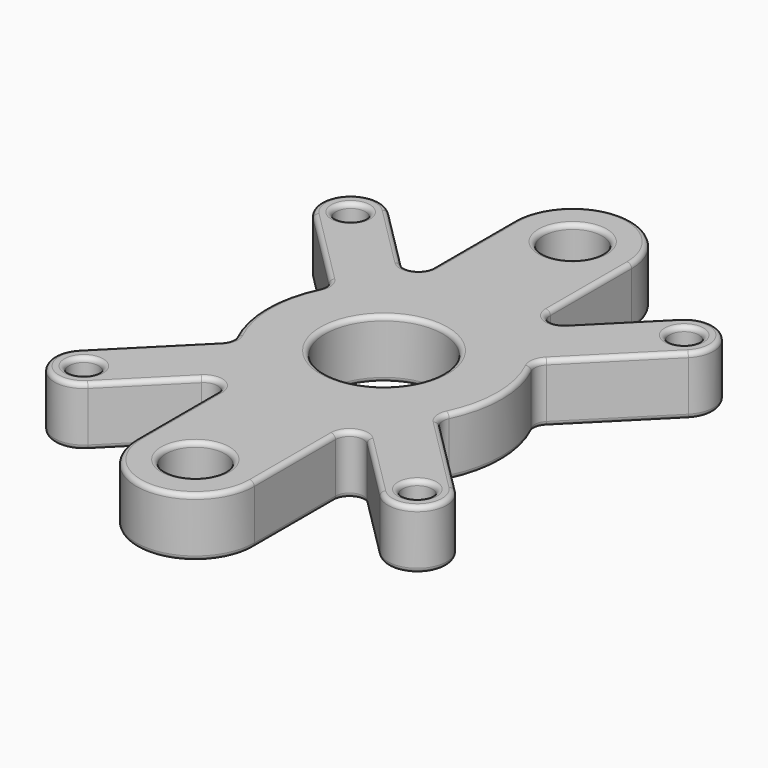
from build123d import *

# Parameters (mm, degrees)
F0_R     = 3.175
F0_R_2   = 6.35
F0_R_3   = 12.7
F1_DEPTH = 12.7
F2_R     = 1


with BuildPart() as f1:
    # F0 (on Top) → F1 (new body)
    with BuildSketch(Plane.XY):
        with BuildLine():
            Line((12.7, 28.922897), (12.7, 50.8))
            ThreePointArc((12.7, 50.8), (0, 63.5), (-12.7, 50.8))
            Line((-12.7, 50.8), (-12.7, 28.922897))
            ThreePointArc((-12.7, 28.922897), (-14.55195, 26.151258), (-17.82132, 26.801576))
            Line((-17.82132, 26.801576), (-31.430896, 40.411153))
            ThreePointArc((-31.430896, 40.411153), (-40.411153, 40.411153), (-40.411153, 31.430896))
            Line((-40.411153, 31.430896), (-23.452426, 14.47217))
            ThreePointArc((-23.452426, 14.47217), (-22.615853, 12.851718), (-22.872294, 11.046182))
            ThreePointArc((-22.872294, 11.046182), (-25.4, 0), (-22.872294, -11.046182))
            ThreePointArc((-22.872294, -11.046182), (-22.615853, -12.851718), (-23.452426, -14.47217))
            Line((-23.452426, -14.47217), (-40.411153, -31.430896))
            ThreePointArc((-40.411153, -31.430896), (-40.411153, -40.411153), (-31.430896, -40.411153))
            Line((-31.430896, -40.411153), (-17.82132, -26.801576))
            ThreePointArc((-17.82132, -26.801576), (-14.55195, -26.151258), (-12.7, -28.922897))
            Line((-12.7, -28.922897), (-12.7, -50.8))
            ThreePointArc((-12.7, -50.8), (0, -63.5), (12.7, -50.8))
            Line((12.7, -50.8), (12.7, -28.922897))
            ThreePointArc((12.7, -28.922897), (14.55195, -26.151258), (17.82132, -26.801576))
            Line((17.82132, -26.801576), (31.430896, -40.411153))
            ThreePointArc((31.430896, -40.411153), (40.411153, -40.411153), (40.411153, -31.430896))
            Line((40.411153, -31.430896), (23.452426, -14.47217))
            ThreePointArc((23.452426, -14.47217), (22.615853, -12.851718), (22.872294, -11.046182))
            ThreePointArc((22.872294, -11.046182), (25.4, 0), (22.872294, 11.046182))
            ThreePointArc((22.872294, 11.046182), (22.615853, 12.851718), (23.452426, 14.47217))
            Line((23.452426, 14.47217), (40.411153, 31.430896))
            ThreePointArc((40.411153, 31.430896), (40.411153, 40.411153), (31.430896, 40.411153))
            Line((31.430896, 40.411153), (17.82132, 26.801576))
            ThreePointArc((17.82132, 26.801576), (14.55195, 26.151258), (12.7, 28.922897))
        make_face()
        with Locations((-35.921024, -35.921024)):
            Circle(F0_R, mode=Mode.SUBTRACT)
        with Locations((0, -50.8)):
            Circle(F0_R_2, mode=Mode.SUBTRACT)
        with Locations((35.921024, -35.921024)):
            Circle(F0_R, mode=Mode.SUBTRACT)
        with Locations((-35.921024, 35.921024)):
            Circle(F0_R, mode=Mode.SUBTRACT)
        Circle(F0_R_3, mode=Mode.SUBTRACT)
        with Locations((0, 50.8)):
            Circle(F0_R_2, mode=Mode.SUBTRACT)
        with Locations((35.921024, 35.921024)):
            Circle(F0_R, mode=Mode.SUBTRACT)
    extrude(amount=F1_DEPTH)

    # F2
    f2_edges = [f1.edges().sort_by_distance(p)[0] for p in [
        (24.626108, 33.606365, 12.7),
        (14.55195, 26.151258, 12.7),
        (12.7, 39.861448, 12.7),
        (0, 63.5, 12.7),
        (-12.7, 39.861448, 12.7),
        (-14.55195, 26.151258, 12.7),
        (-24.626108, 33.606365, 12.7),
        (-40.411153, 40.411153, 12.7),
        (-31.931789, 22.951533, 12.7),
        (-22.615853, 12.851718, 12.7),
        (-25.4, 0, 12.7),
        (-22.615853, -12.851718, 12.7),
        (-31.931789, -22.951533, 12.7),
        (-40.411153, -40.411153, 12.7),
        (-24.626108, -33.606365, 12.7),
        (-14.55195, -26.151258, 12.7),
        (-12.7, -39.861448, 12.7),
        (0, -63.5, 12.7),
        (12.7, -39.861448, 12.7),
        (14.55195, -26.151258, 12.7),
        (24.626108, -33.606365, 12.7),
        (40.411153, -40.411153, 12.7),
        (31.931789, -22.951533, 12.7),
        (22.615853, -12.851718, 12.7),
        (25.4, 0, 12.7),
        (22.615853, 12.851718, 12.7),
        (31.931789, 22.951533, 12.7),
        (40.411153, 40.411153, 12.7),
        (-39.096024, -35.921024, 12.7),
        (-6.35, -50.8, 12.7),
        (32.746024, -35.921024, 12.7),
        (-39.096024, 35.921024, 12.7),
        (-12.7, 0, 12.7),
        (-6.35, 50.8, 12.7),
        (32.746024, 35.921024, 12.7),
        (12.7, -50.8, 6.35),
        (12.7, -28.922897, 6.35),
        (12.7, -39.861448, 0),
        (-12.7, -50.8, 6.35),
        (0, -63.5, 0),
        (-17.82132, -26.801576, 6.35),
        (-12.7, -28.922897, 6.35),
        (-14.55195, -26.151258, 0),
        (-12.7, 28.922897, 6.35),
        (-17.82132, 26.801576, 6.35),
        (-14.55195, 26.151258, 0),
        (24.626108, -33.606365, 0),
        (-31.430896, -40.411153, 6.35),
        (-24.626108, -33.606365, 0),
        (-40.411153, 31.430896, 6.35),
        (-23.452426, 14.47217, 6.35),
        (-31.931789, 22.951533, 0),
        (22.872294, -11.046182, 6.35),
        (22.872294, 11.046182, 6.35),
        (25.4, 0, 0),
        (23.452426, 14.47217, 6.35),
        (22.615853, 12.851718, 0),
        (-32.746024, -35.921024, 6.35),
        (-39.096024, -35.921024, 0),
        (39.096024, -35.921024, 6.35),
        (32.746024, -35.921024, 0),
        (39.096024, 35.921024, 6.35),
        (32.746024, 35.921024, 0),
        (-32.746024, 35.921024, 6.35),
        (-39.096024, 35.921024, 0),
        (-40.411153, -31.430896, 6.35),
        (-40.411153, -40.411153, 0),
        (31.430896, -40.411153, 6.35),
        (40.411153, -31.430896, 6.35),
        (40.411153, -40.411153, 0),
        (40.411153, 31.430896, 6.35),
        (31.430896, 40.411153, 6.35),
        (40.411153, 40.411153, 0),
        (-31.430896, 40.411153, 6.35),
        (-24.626108, 33.606365, 0),
        (31.931789, 22.951533, 0),
        (-40.411153, 40.411153, 0),
        (6.35, 50.8, 6.35),
        (-6.35, 50.8, 0),
        (12.7, 50.8, 6.35),
        (-12.7, 50.8, 6.35),
        (0, 63.5, 0),
        (17.82132, -26.801576, 6.35),
        (-22.872294, -11.046182, 6.35),
        (-23.452426, -14.47217, 6.35),
        (-22.615853, -12.851718, 0),
        (24.626108, 33.606365, 0),
        (14.55195, 26.151258, 0),
        (12.7, 39.861448, 0),
        (-12.7, 39.861448, 0),
        (-22.615853, 12.851718, 0),
        (-25.4, 0, 0),
        (-31.931789, -22.951533, 0),
        (-12.7, -39.861448, 0),
        (14.55195, -26.151258, 0),
        (31.931789, -22.951533, 0),
        (22.615853, -12.851718, 0),
        (-6.35, -50.8, 0),
        (-12.7, 0, 0),
        (12.7, 0, 6.35),
        (-22.872294, 11.046182, 6.35),
        (12.7, 28.922897, 6.35),
        (17.82132, 26.801576, 6.35),
        (6.35, -50.8, 6.35),
        (23.452426, -14.47217, 6.35),
    ]]
    fillet(f2_edges, radius=F2_R)


solid = f1.part
